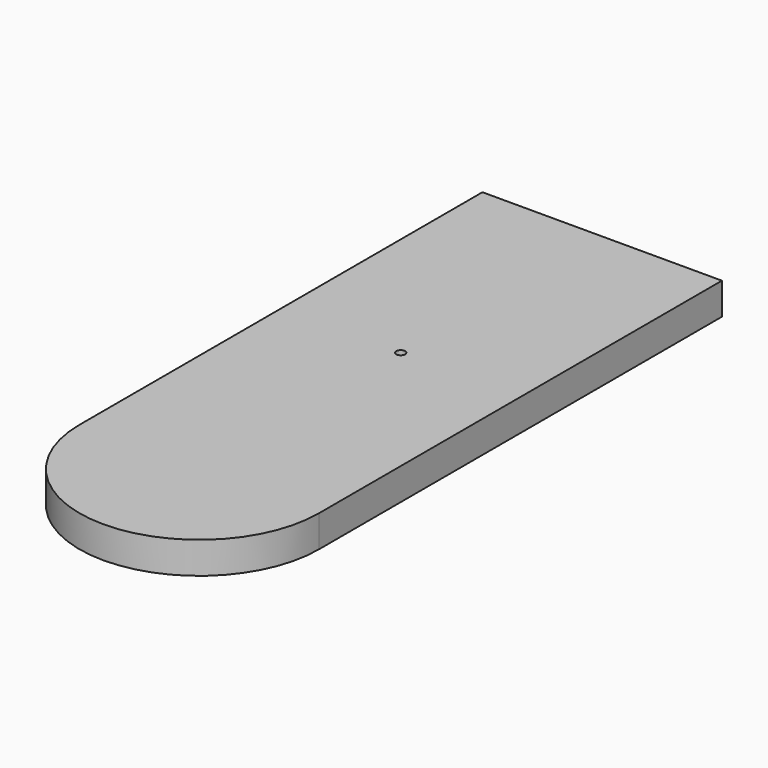
from build123d import *

# Parameters (mm, degrees)
F0_R     = 1.7685558776
F0_W     = 47.8789284825
F0_H     = 32.7401943505
F1_DEPTH = 12.7


with BuildPart() as f1:
    # F0 (on Top) → F1 (new body)
    with BuildSketch(Plane.XY):
        Polygon((47.8789284825, 100.7016599178), (-47.8789284825, 100.7016599178), (-47.8789284825, 53.3194467425), (0, 53.3194467425), (0, 20.5792523921), (-47.8789284825, 20.5792523921), (-47.8789284825, -100.7016599178), (47.8789284825, -100.7016599178), align=None)
        Circle(F0_R, mode=Mode.SUBTRACT)
        with Locations((-23.9394642413, 36.9493495673)):
            Rectangle(F0_W, F0_H)
        with BuildLine():
            ThreePointArc((-47.8789284825, -100.7016599178), (0, -148.5805884004), (47.8789284825, -100.7016599178))
            Line((47.8789284825, -100.7016599178), (-47.8789284825, -100.7016599178))
        make_face()
        with Locations((-23.9394642413, 36.9493495673)):
            Rectangle(F0_W, F0_H)
        with BuildLine():
            ThreePointArc((-47.8789284825, -100.7016599178), (0, -148.5805884004), (47.8789284825, -100.7016599178))
            Line((47.8789284825, -100.7016599178), (-47.8789284825, -100.7016599178))
        make_face()
        Polygon((47.8789284825, 100.7016599178), (-47.8789284825, 100.7016599178), (-47.8789284825, 53.3194467425), (0, 53.3194467425), (0, 20.5792523921), (-47.8789284825, 20.5792523921), (-47.8789284825, -100.7016599178), (47.8789284825, -100.7016599178), align=None)
        Circle(F0_R, mode=Mode.SUBTRACT)
    extrude(amount=F1_DEPTH)


solid = f1.part
